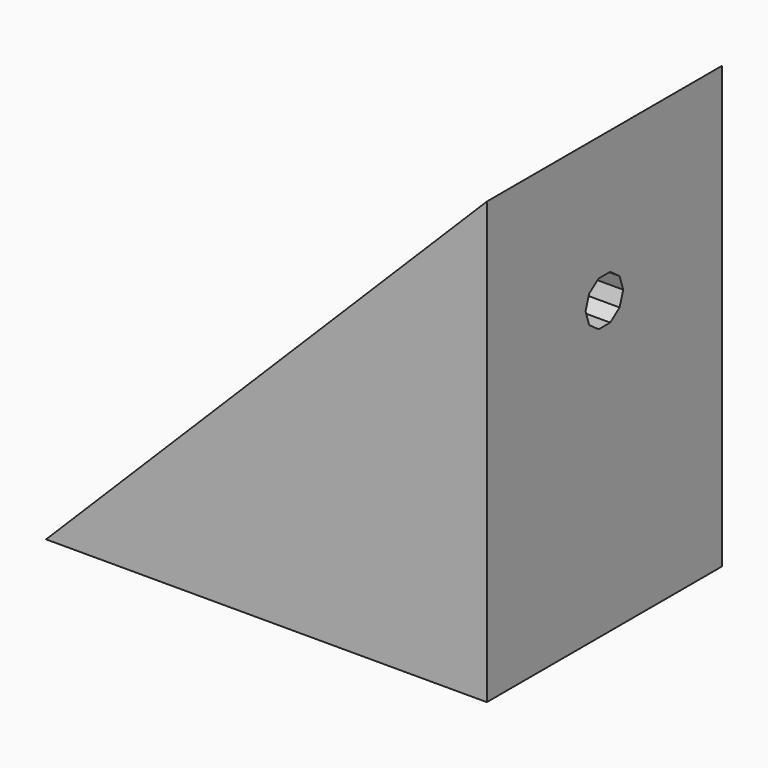
from build123d import *

# Parameters (mm, degrees)
PRISM082_DEPTH           = 30
PRISM082_PITCH_ANGLE     = 90
PRISM083_DEPTH           = 10
PRISM083_PITCH_ANGLE     = 90
PRISM084_DEPTH           = 30
PRISM084_ROLL_ANGLE      = 90
PRISM085_DEPTH           = 10
PRISM085_ROLL_ANGLE      = 90
CUBE086_W                = 60
CUBE086_H                = 30
CUBE086_DEPTH            = 20
CUBE086_PLACEMENT_ANGLE  = 45
CUBE085_W                = 30
CUBE085_H                = 30
CUBE085_DEPTH            = 20
DIFFERENCE052_ROLL_ANGLE = 90


with BuildPart() as prism082:
    # prism082 → prism082 (new body)
    with BuildSketch(Plane.XY):
        Polygon((1.6, 0), (1.294427, 0.940456), (0.494427, 1.52169), (-0.494427, 1.52169), (-1.294427, 0.940456), (-1.6, 0), (-1.294427, -0.940456), (-0.494427, -1.52169), (0.494427, -1.52169), (1.294427, -0.940456), align=None)
    extrude(amount=PRISM082_DEPTH)


with BuildPart() as prism082_1:
    # prism082 pitch: moved
    add(prism082.part.rotate(Axis((0, 0, 0), (0, 1, 0)), PRISM082_PITCH_ANGLE))


with BuildPart() as prism082_2:
    # prism082 placement: moved
    add(prism082_1.part.moved(Location((5, 20, 10))))


with BuildPart() as prism083:
    # prism083 → prism083 (new body)
    with BuildSketch(Plane.XY):
        Polygon((3, 0), (2.427051, 1.763356), (0.927051, 2.85317), (-0.927051, 2.85317), (-2.427051, 1.763356), (-3, 0), (-2.427051, -1.763356), (-0.927051, -2.85317), (0.927051, -2.85317), (2.427051, -1.763356), align=None)
    extrude(amount=PRISM083_DEPTH)


with BuildPart() as prism083_1:
    # prism083 pitch: moved
    add(prism083.part.rotate(Axis((0, 0, 0), (0, 1, 0)), PRISM083_PITCH_ANGLE))


with BuildPart() as prism083_2:
    # prism083 placement: moved
    add(prism083_1.part.moved(Location((15, 20, 10))))


with BuildPart() as prism084:
    # prism084 → prism084 (new body)
    with BuildSketch(Plane.XY):
        Polygon((1.6, 0), (1.294427, 0.940456), (0.494427, 1.52169), (-0.494427, 1.52169), (-1.294427, 0.940456), (-1.6, 0), (-1.294427, -0.940456), (-0.494427, -1.52169), (0.494427, -1.52169), (1.294427, -0.940456), align=None)
    extrude(amount=PRISM084_DEPTH)


with BuildPart() as prism084_1:
    # prism084 roll: moved
    add(prism084.part.rotate(Axis((0, 0, 0), (1, 0, 0)), PRISM084_ROLL_ANGLE))


with BuildPart() as prism084_2:
    # prism084 placement: moved
    add(prism084_1.part.moved(Location((10, 20, 10))))


with BuildPart() as prism085:
    # prism085 → prism085 (new body)
    with BuildSketch(Plane.XY):
        Polygon((3, 0), (2.427051, 1.763356), (0.927051, 2.85317), (-0.927051, 2.85317), (-2.427051, 1.763356), (-3, 0), (-2.427051, -1.763356), (-0.927051, -2.85317), (0.927051, -2.85317), (2.427051, -1.763356), align=None)
    extrude(amount=PRISM085_DEPTH)


with BuildPart() as prism085_1:
    # prism085 roll: moved
    add(prism085.part.rotate(Axis((0, 0, 0), (1, 0, 0)), PRISM085_ROLL_ANGLE))


with BuildPart() as prism085_2:
    # prism085 placement: moved
    add(prism085_1.part.moved(Location((10, 15, 10))))


with BuildPart() as union041:
    # cube086 → cube086 (new body)
    with BuildSketch(Plane.XY):
        with Locations((30, 15)):
            Rectangle(CUBE086_W, CUBE086_H)
    extrude(amount=CUBE086_DEPTH)


with BuildPart() as union041_1:
    # cube086 placement: moved
    add(union041.part.rotate(Axis((0, 0, 0), (0, 0, 1)), CUBE086_PLACEMENT_ANGLE))

    # union041: union prism082, prism083, prism084, prism085
    add(prism082_2.part)
    add(prism083_2.part)
    add(prism084_2.part)
    add(prism085_2.part)


with BuildPart() as difference052:
    # cube085 → cube085 (new body)
    with BuildSketch(Plane.XY):
        with Locations((15, 15)):
            Rectangle(CUBE085_W, CUBE085_H)
    extrude(amount=CUBE085_DEPTH)

    # difference052: cut union041
    add(union041_1.part, mode=Mode.SUBTRACT)


with BuildPart() as difference052_1:
    # difference052 roll: moved
    add(difference052.part.rotate(Axis((0, 0, 0), (1, 0, 0)), DIFFERENCE052_ROLL_ANGLE))


with BuildPart() as difference052_2:
    # difference052 placement: moved
    add(difference052_1.part.moved(Location((436, 305, 198))))


solid = difference052_2.part
